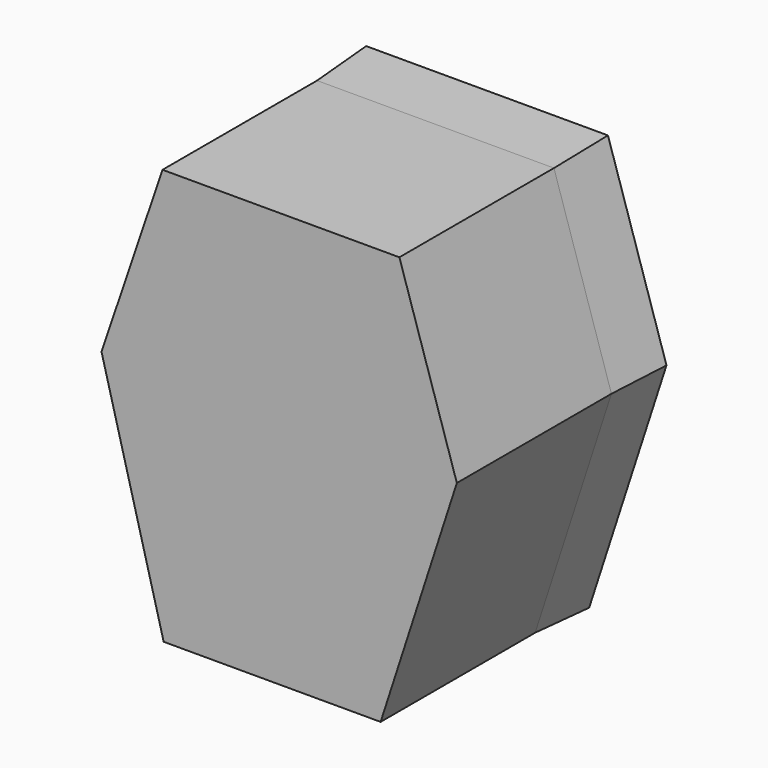
from build123d import *

# Parameters (mm, degrees)
F1_DEPTH      = 30
F1_DEPTH_BACK = 10
F1_TAPER_BACK = -3


with BuildPart() as f1:
    # F0 (on Front) → F1 (new body, two sides)
    with BuildSketch(Plane.XZ) as f1_sk:
        Polygon((-17.5708103925, 27.9494225979), (-27.0390175283, 0), (-17.3887293786, -36.5072265267), (0, -36.5072265267), (16.2962432951, -36.5072265267), (28.1315054744, 0), (19.2095395178, 27.9494225979), align=None)
    extrude(amount=F1_DEPTH)
    extrude(f1_sk.sketch, amount=-F1_DEPTH_BACK, taper=F1_TAPER_BACK)


solid = f1.part
